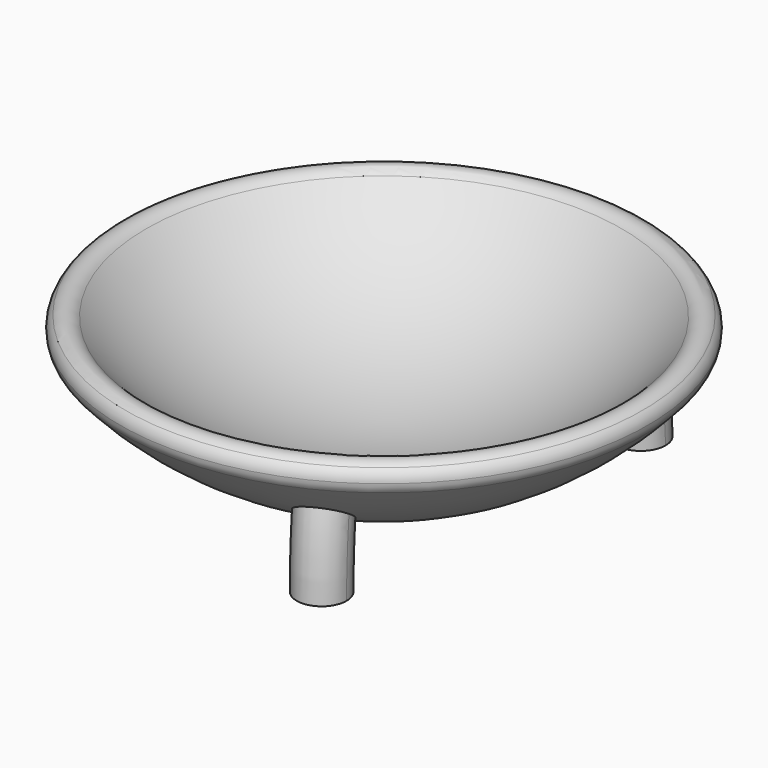
from build123d import *

# Parameters (mm, degrees)
F3_ANGLE = 15
F4_ANGLE = 15
F5_ANGLE = 15


with BuildPart() as f2:
    # F1 (on Right) → F2 (revolve)
    with BuildSketch(Plane.YZ):
        with BuildLine():
            ThreePointArc((-23.5, 12.700896879), (-23.6243333512, 12.1029493301), (-23.9767216951, 11.6041282112))
            ThreePointArc((-23.9767216951, 11.6041282112), (-13.0093869009, 4.1292071294), (0, 1.5))
            Line((0, 1.5), (0, 3))
            ThreePointArc((0, 3), (-13.0839530364, 5.7970862251), (-23.8805970223, 13.6993641912))
            ThreePointArc((-23.8805970223, 13.6993641912), (-23.5983751453, 13.235169999), (-23.5, 12.700896879))
        make_face()
        with BuildLine():
            ThreePointArc((-23.9767216951, 11.6041282112), (-25.0687443502, 11.2024729689), (-26.119403059, 11.7024296579))
            ThreePointArc((-26.119403059, 11.7024296579), (-14.3105736787, 3.059313079), (0, 0))
            Line((0, 0), (0, 1.5))
            ThreePointArc((0, 1.5), (-13.0093869009, 4.1292071294), (-23.9767216951, 11.6041282112))
        make_face()
        with BuildLine():
            ThreePointArc((-25.9731557832, 13.842373038), (-26.4965092865, 12.8031708029), (-26.119403059, 11.7024296579))
            ThreePointArc((-26.119403059, 11.7024296579), (-25.0687443502, 11.2024729689), (-23.9767216951, 11.6041282112))
            ThreePointArc((-23.9767216951, 11.6041282112), (-25, 12.700896879), (-25.9731557832, 13.842373038))
        make_face()
        with BuildLine():
            ThreePointArc((-23.8805970223, 13.6993641912), (-24.897726137, 14.1974061697), (-25.9731557832, 13.842373038))
            ThreePointArc((-25.9731557832, 13.842373038), (-25, 12.700896879), (-23.9767216951, 11.6041282112))
            ThreePointArc((-23.9767216951, 11.6041282112), (-23.6243333512, 12.1029493301), (-23.5, 12.700896879))
            ThreePointArc((-23.5, 12.700896879), (-23.5983751453, 13.235169999), (-23.8805970223, 13.6993641912))
        make_face()
        with BuildLine():
            ThreePointArc((23.9767216951, 11.6041282112), (25.0687443844, 11.2024729705), (26.1194031045, 11.702429709))
            ThreePointArc((26.1194031045, 11.702429709), (26.4016248886, 12.166623848), (26.5, 12.700896879))
            ThreePointArc((26.5, 12.700896879), (26.3619349608, 13.3294930631), (25.9731557832, 13.842373038))
            ThreePointArc((25.9731557832, 13.842373038), (25, 12.700896879), (23.9767216951, 11.6041282112))
        make_face()
        with BuildLine():
            ThreePointArc((23.8805969652, 13.6993641272), (23.5015760891, 12.6321525469), (23.9767216951, 11.6041282112))
            ThreePointArc((23.9767216951, 11.6041282112), (25, 12.700896879), (25.9731557832, 13.842373038))
            ThreePointArc((25.9731557832, 13.842373038), (24.8977260943, 14.1974061667), (23.8805969652, 13.6993641272))
        make_face()
    revolve(axis=Axis((0, 0, 69.2957118154), (0, 0, 1)))

    # F0 (on Top) → F3 (revolve)
    with BuildSketch(Plane.XY):
        with BuildLine():
            ThreePointArc((11.4392372684, -19.0023692486), (10.7795747302, -17.3102823634), (9.1487108469, -16.5111605419))
            Line((9.1487108469, -16.5111605419), (8.9392372684, -19.0023692486))
            Line((8.9392372684, -19.0023692486), (6.8865240316, -17.5753554549))
            ThreePointArc((6.8865240316, -17.5753554549), (8.1915017176, -21.3879282074), (11.4392372684, -19.0023692486))
        make_face()
        with BuildLine():
            Line((8.9392372684, -19.0023692486), (9.1487108469, -16.5111605419))
            ThreePointArc((9.1487108469, -16.5111605419), (7.8750423555, -16.7401824333), (6.8865240316, -17.5753554549))
            Line((6.8865240316, -17.5753554549), (8.9392372684, -19.0023692486))
        make_face()
    revolve(axis=Axis((-4.4696186342, 9.5011846243, 0), (-0.9048747261, -0.4256779652, 0)), revolution_arc=F3_ANGLE)

    # F0 (on Top) → F4 (revolve)
    with BuildSketch(Plane.XY):
        with BuildLine():
            Line((11.7774422886, 14.7515824826), (11.9869158671, 17.2427911892))
            Line((11.9869158671, 17.2427911892), (9.7247290518, 16.1785962763))
            ThreePointArc((9.7247290518, 16.1785962763), (10.5599020734, 15.1900779524), (11.7774422886, 14.7515824826))
        make_face()
        with BuildLine():
            Line((9.7247290518, 16.1785962763), (11.9869158671, 17.2427911892))
            Line((11.9869158671, 17.2427911892), (11.7774422886, 14.7515824826))
            ThreePointArc((11.7774422886, 14.7515824826), (13.6790027523, 15.4024537275), (14.4869158671, 17.2427911892))
            ThreePointArc((14.4869158671, 17.2427911892), (11.4416943701, 19.6826136252), (9.7247290518, 16.1785962763))
        make_face()
    revolve(axis=Axis((-5.9934579336, -8.6213955946, 0), (0.8210852947, -0.5708055175, 0)), revolution_arc=F4_ANGLE)

    # F0 (on Top) → F5 (revolve)
    with BuildSketch(Plane.XY):
        with BuildLine():
            ThreePointArc((-18.4261531356, 1.7595780594), (-18.4863306996, 2.3047995564), (-18.6639663203, 2.8237729723))
            Line((-18.6639663203, 2.8237729723), (-20.9261531356, 1.7595780594))
            Line((-20.9261531356, 1.7595780594), (-18.8734398988, 0.3325642656))
            ThreePointArc((-18.8734398988, 0.3325642656), (-18.5405941767, 1.0118425085), (-18.4261531356, 1.7595780594))
        make_face()
        with BuildLine():
            Line((-20.9261531356, 1.7595780594), (-18.6639663203, 2.8237729723))
            ThreePointArc((-18.6639663203, 2.8237729723), (-23.4173618422, 1.9690516378), (-18.8734398988, 0.3325642656))
            Line((-18.8734398988, 0.3325642656), (-20.9261531356, 1.7595780594))
        make_face()
    revolve(axis=Axis((10.4630765678, -0.8797890297, 0), (0.0837894314, 0.9964834826, 0)), revolution_arc=F5_ANGLE)


solid = f2.part
